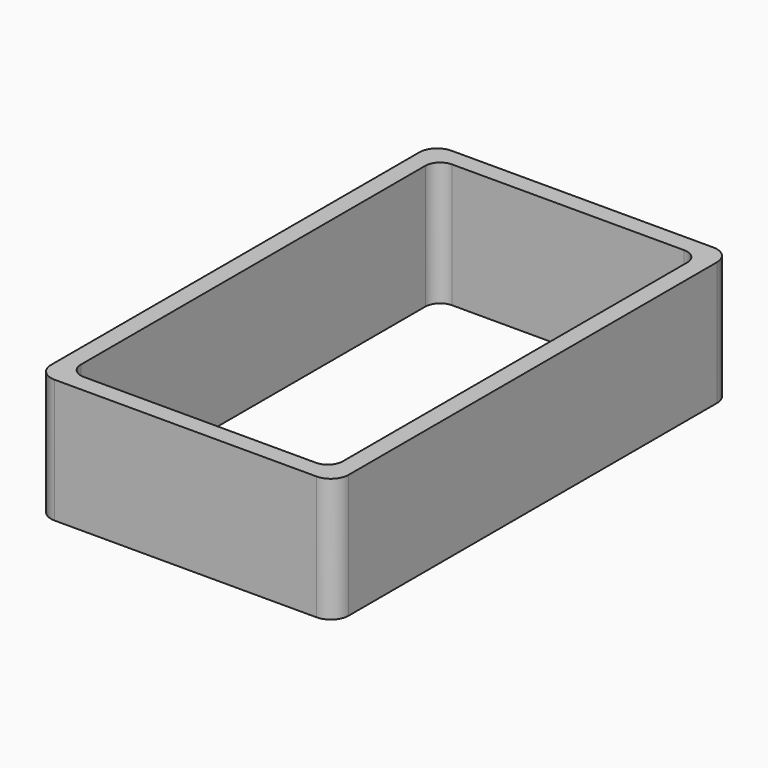
from build123d import *

# Parameters (mm, degrees)
F1_DEPTH = 25


with BuildPart() as f1:
    # F0 (on Top) → F1 (new body)
    with BuildSketch(Plane.XY):
        with BuildLine():
            Line((-3.048927, 78.756292), (-55.848927, 78.756292))
            ThreePointArc((-55.848927, 78.756292), (-58.394511, 77.701876), (-59.448927, 75.156292))
            Line((-59.448927, 75.156292), (-59.448927, -17.643708))
            ThreePointArc((-59.448927, -17.643708), (-58.394511, -20.189292), (-55.848927, -21.243708))
            Line((-55.848927, -21.243708), (-3.048927, -21.243708))
            ThreePointArc((-3.048927, -21.243708), (-0.503343, -20.189292), (0.551073, -17.643708))
            Line((0.551073, -17.643708), (0.551073, 75.156292))
            ThreePointArc((0.551073, 75.156292), (-0.503343, 77.701876), (-3.048927, 78.756292))
        make_face()
        with BuildLine():
            Line((-52.848927, 75.156292), (-6.048927, 75.156292))
            ThreePointArc((-6.048927, 75.156292), (-3.927607, 74.277612), (-3.048927, 72.156292))
            Line((-3.048927, 72.156292), (-3.048927, -14.643708))
            ThreePointArc((-3.048927, -14.643708), (-3.927607, -16.765028), (-6.048927, -17.643708))
            Line((-6.048927, -17.643708), (-52.848927, -17.643708))
            ThreePointArc((-52.848927, -17.643708), (-54.970247, -16.765028), (-55.848927, -14.643708))
            Line((-55.848927, -14.643708), (-55.848927, 72.156292))
            ThreePointArc((-55.848927, 72.156292), (-54.970247, 74.277612), (-52.848927, 75.156292))
        make_face(mode=Mode.SUBTRACT)
    extrude(amount=F1_DEPTH)


solid = f1.part
